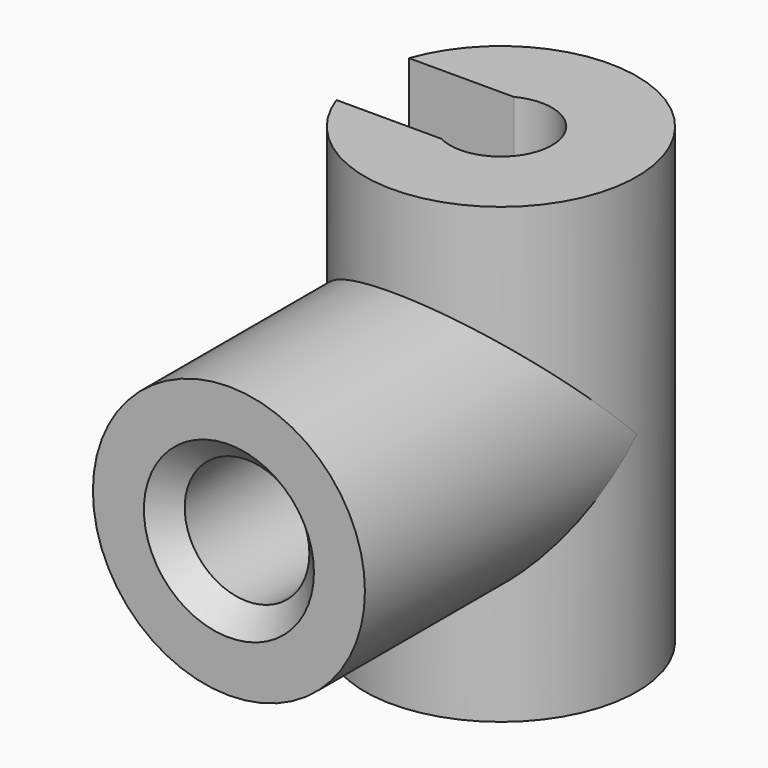
from build123d import *

# Parameters (mm, degrees)
F0_R     = 6
F1_DEPTH = 20
F4_R     = 6
F4_R_2   = 2.75
F5_DEPTH = 15
F2_R     = 2.25
F6_DEPTH = 20
F8_DEPTH = 20
F9_SIZE  = 1


with BuildPart() as f1:
    # F0 (on Top) → F1 (new body)
    with BuildSketch(Plane.XY):
        Circle(F0_R)
    extrude(amount=-F1_DEPTH)

    # F4 (on offset) → F5 (join)
    with BuildSketch(Plane.XZ.offset(15)):
        with Locations((0, -10)):
            Circle(F4_R)
        with Locations((0, -10)):
            Circle(F4_R_2, mode=Mode.SUBTRACT)
    extrude(amount=-F5_DEPTH)

    # F2 (on face) → F6 (cut, through all)
    with BuildSketch(Plane.XY):
        Circle(F2_R)
    extrude(amount=-F6_DEPTH, mode=Mode.SUBTRACT)

    # F7 (on face) → F8 (cut, through all)
    with BuildSketch(Plane.XY):
        with BuildLine():
            Line((-1.0307764064, 2), (-5.6568542495, 2))
            ThreePointArc((-5.6568542495, 2), (-6, 0), (-5.6568542495, -2))
            Line((-5.6568542495, -2), (-1.0307764064, -2))
            ThreePointArc((-1.0307764064, -2), (-2.25, 0), (-1.0307764064, 2))
        make_face()
        with BuildLine():
            Line((0, 2), (-1.0307764064, 2))
            ThreePointArc((-1.0307764064, 2), (-2.25, 0), (-1.0307764064, -2))
            Line((-1.0307764064, -2), (0, -2))
            Line((0, -2), (0, 2))
        make_face()
        with BuildLine():
            Line((-5.6568542495, 2), (-8.5344118631, 2))
            Line((-8.5344118631, 2), (-8.5344118631, -2))
            Line((-8.5344118631, -2), (-5.6568542495, -2))
            ThreePointArc((-5.6568542495, -2), (-6, 0), (-5.6568542495, 2))
        make_face()
    extrude(amount=-F8_DEPTH, mode=Mode.SUBTRACT)

    # F9
    f9_edges = [f1.edges().sort_by_distance(p)[0] for p in [
        (-2.75, -15, -10),
    ]]
    chamfer(f9_edges, length=F9_SIZE)


solid = f1.part
